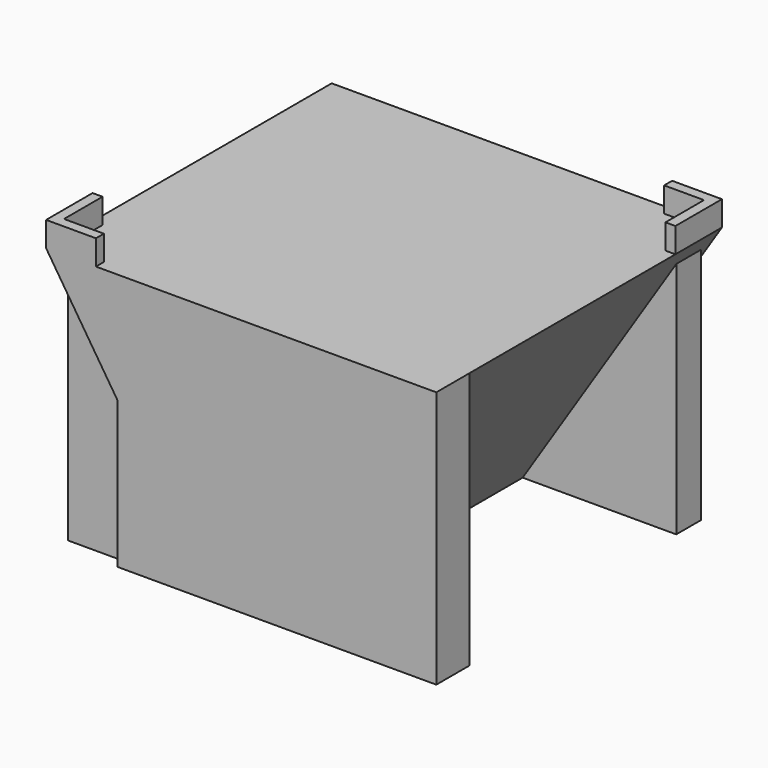
from build123d import *

# Parameters (mm, degrees)
SKETCH031_W  = 7
SKETCH031_H  = 43
SKETCH029_W  = 47
SKETCH029_H  = 43
PAD006_DEPTH = 31
PAD007_DEPTH = 3
PAD013_DEPTH = 3


with BuildPart() as part:
    # Sketch031 → AdditiveLoft001 section 0
    with BuildSketch(Plane(origin=(0, 0, -31.2), x_dir=(1, 0, 0), z_dir=(0, 0, -1))):
        with Locations((-41.5, 0)):
            Rectangle(SKETCH031_W, SKETCH031_H)
    # Sketch029 → AdditiveLoft001 section 1
    with BuildSketch(Plane.XY.offset(-0.2)):
        with Locations((-41.5, 0)):
            Rectangle(SKETCH029_W, SKETCH029_H)
    loft()

    # Sketch027 → Pad006 (new body)
    with BuildSketch(Plane(origin=(0, 0, -31.2), x_dir=(1, 0, 0), z_dir=(0, 0, -1))):
        Polygon((-18, 16.5), (-38, 16.5), (-38, -16.5), (-19.5, -16.5), (-19.5, -20.2), (-26.5, -20.2), (-26.5, -21.5), (-65, -21.5), (-65, -16.5), (-45, -16.5), (-45, 16.5), (-63.4, 16.5), (-63.4, 20.2), (-56.4, 20.2), (-56.4, 21.5), (-18, 21.5), align=None)
    extrude(amount=-PAD006_DEPTH)

    # Sketch035 → Pad007 (join)
    with BuildSketch(Plane.XY.offset(-0.2)):
        Polygon((-24, 21.5), (-24, 20.3), (-19.2, 20.3), (-19.2, 14.5), (-18, 14.5), (-18, 21.5), align=None)
    extrude(amount=PAD007_DEPTH)

    # Sketch032 (on Face11 of Pad007) → Pad013 (join)
    with BuildSketch(Plane.XY.offset(-0.2)):
        Polygon((-65, -14.5), (-65, -21.5), (-59, -21.5), (-59, -20.3), (-63.8, -20.3), (-63.8, -14.5), align=None)
    extrude(amount=PAD013_DEPTH)


solid = part.part
